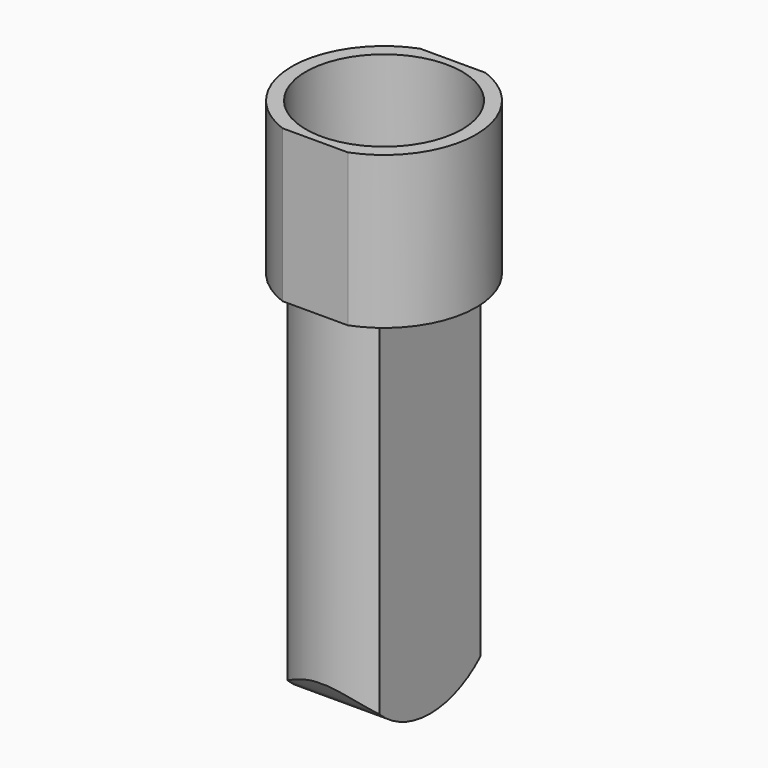
from build123d import *

# Parameters (mm, degrees)
F1_DEPTH = 38
F2_R     = 19.5
F3_DEPTH = 26
F5_DEPTH = 93
F7_DEPTH = 34.501


with BuildPart() as f1:
    # F0 (on Top) → F1 (new body)
    with BuildSketch(Plane.XY):
        with BuildLine():
            Line((8.170067, 21.5), (-8.170067, 21.5))
            ThreePointArc((-8.170067, 21.5), (-23, 0), (-8.170067, -21.5))
            Line((-8.170067, -21.5), (8.170067, -21.5))
            ThreePointArc((8.170067, -21.5), (23, 0), (8.170067, 21.5))
        make_face()
    extrude(amount=F1_DEPTH)

    # F2 (on face) → F3 (cut)
    with BuildSketch(Plane.XY.offset(38)):
        Circle(F2_R)
    extrude(amount=-F3_DEPTH, mode=Mode.SUBTRACT)

    # F4 (on face) → F5 (join)
    with BuildSketch(Plane(origin=(0, 0, 0), x_dir=(1, 0, 0), z_dir=(0, 0, -1))):
        with BuildLine():
            Line((-11.5, 15.748016), (-11.5, -15.748016))
            ThreePointArc((-11.5, -15.748016), (0, -19.5), (11.5, -15.748016))
            Line((11.5, -15.748016), (11.5, 15.748016))
            ThreePointArc((11.5, 15.748016), (0, 19.5), (-11.5, 15.748016))
        make_face()
    extrude(amount=F5_DEPTH)

    # F6 (on face) → F7 (cut, through all)
    with BuildSketch(Plane(origin=(-11.5, 0, 0), x_dir=(0, -1, 0), z_dir=(-1, 0, 0))):
        with BuildLine():
            Line((38.116675, -101.656117), (19.472977, -82.23941))
            ThreePointArc((19.472977, -82.23941), (17.755152, -84.620348), (15.748016, -86.763055))
            Line((15.748016, -86.763055), (15.748016, -93))
            Line((15.748016, -93), (0, -93))
            Line((0, -93), (-15.748016, -93))
            Line((-15.748016, -93), (-15.748016, -86.763055))
            ThreePointArc((-15.748016, -86.763055), (-17.850565, -84.503701), (-19.63169, -81.983187))
            Line((-19.63169, -81.983187), (-36.674619, -101.656117))
            Line((-36.674619, -101.656117), (38.116675, -101.656117))
        make_face()
        with BuildLine():
            Line((15.748016, -93), (15.748016, -86.763055))
            ThreePointArc((15.748016, -86.763055), (8.469054, -91.383992), (0, -93))
            Line((0, -93), (15.748016, -93))
        make_face()
        with BuildLine():
            Line((-15.748016, -93), (0, -93))
            ThreePointArc((0, -93), (-8.469054, -91.383992), (-15.748016, -86.763055))
            Line((-15.748016, -86.763055), (-15.748016, -93))
        make_face()
    extrude(amount=-F7_DEPTH, mode=Mode.SUBTRACT)


solid = f1.part
